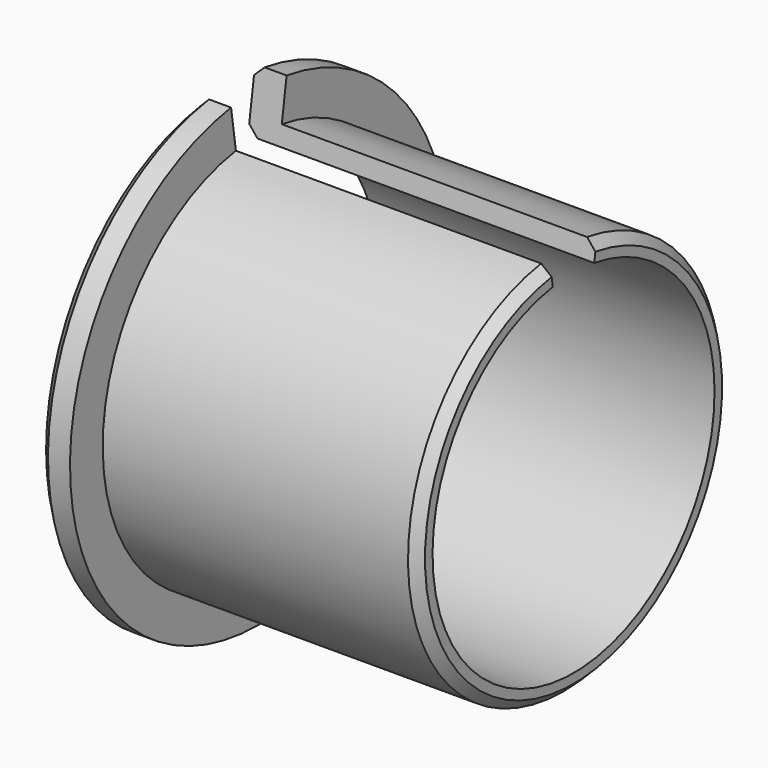
from build123d import *

# Parameters (mm, degrees)
F0_R     = 6.2
F0_R_2   = 5.6
F0_R_3   = 7.5
F1_DEPTH = 1
F2_DEPTH = 11
F3_DEPTH = 11.001
F4_SIZE  = 0.3
F6_DEPTH = 11.001


with BuildPart() as f1:
    # F0 (on Right) → F1 (new body)
    with BuildSketch(Plane.YZ):
        Circle(F0_R)
        Circle(F0_R_2, mode=Mode.SUBTRACT)
        Circle(F0_R_2)
        Circle(F0_R_3)
        Circle(F0_R, mode=Mode.SUBTRACT)
    extrude(amount=F1_DEPTH)

    # F0 (on Right) → F2 (join)
    with BuildSketch(Plane.YZ):
        Circle(F0_R)
        Circle(F0_R_2, mode=Mode.SUBTRACT)
    extrude(amount=F2_DEPTH)

    # F0 (on Right) → F3 (cut, through all)
    with BuildSketch(Plane.YZ):
        Circle(F0_R_2)
    extrude(amount=F3_DEPTH, mode=Mode.SUBTRACT)

    # F4
    f4_edges = [f1.edges().sort_by_distance(p)[0] for p in [
        (0, -5.6, 0),
        (11, -6.2, 0),
        (0, -7.5, 0),
    ]]
    chamfer(f4_edges, length=F4_SIZE)

    # F5 (on Right) → F6 (cut, through all)
    with BuildSketch(Plane.YZ):
        with BuildLine():
            Line((0.588235, 3.956511), (1.25, 8.407586))
            ThreePointArc((1.25, 8.407586), (0, 8.5), (-1.25, 8.407586))
            Line((-1.25, 8.407586), (-0.588235, 3.956511))
            ThreePointArc((-0.588235, 3.956511), (0, 4), (0.588235, 3.956511))
        make_face()
    extrude(amount=F6_DEPTH, mode=Mode.SUBTRACT)


solid = f1.part
